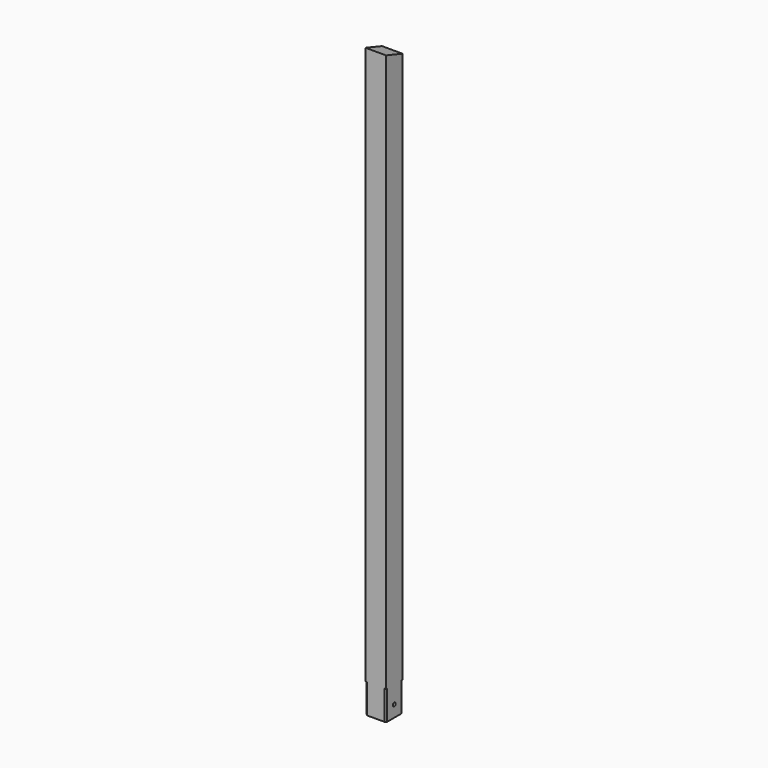
from build123d import *

# Parameters (mm, degrees)
F0_W     = 70
F0_H     = 70
F1_DEPTH = 100
F2_SIZE  = 5
F3_W     = 70
F3_H     = 70
F4_DEPTH = 1900
F5_R     = 6
F6_DEPTH = 70.001


with BuildPart() as f1:
    # F0 (on Top) → F1 (new body)
    with BuildSketch(Plane.XY):
        Rectangle(F0_W, F0_H)
    extrude(amount=F1_DEPTH)

    # F2
    f2_edges = [f1.edges().sort_by_distance(p)[0] for p in [
        (-35, -35, 50),
        (35, -35, 50),
        (35, 35, 50),
        (-35, 35, 50),
    ]]
    chamfer(f2_edges, length=F2_SIZE)

    # F3 (on face) → F4 (join)
    with BuildSketch(Plane.XY.offset(100)):
        Rectangle(F3_W, F3_H)
    extrude(amount=F4_DEPTH)

    # F5 (on face) → F6 (cut, through all)
    with BuildSketch(Plane.YZ.offset(35)):
        with Locations((0, 40)):
            Circle(F5_R)
        Polygon((35, 2000), (-35, 2000), (35, 1976.666667), align=None)
    extrude(amount=-F6_DEPTH, mode=Mode.SUBTRACT)


solid = f1.part
